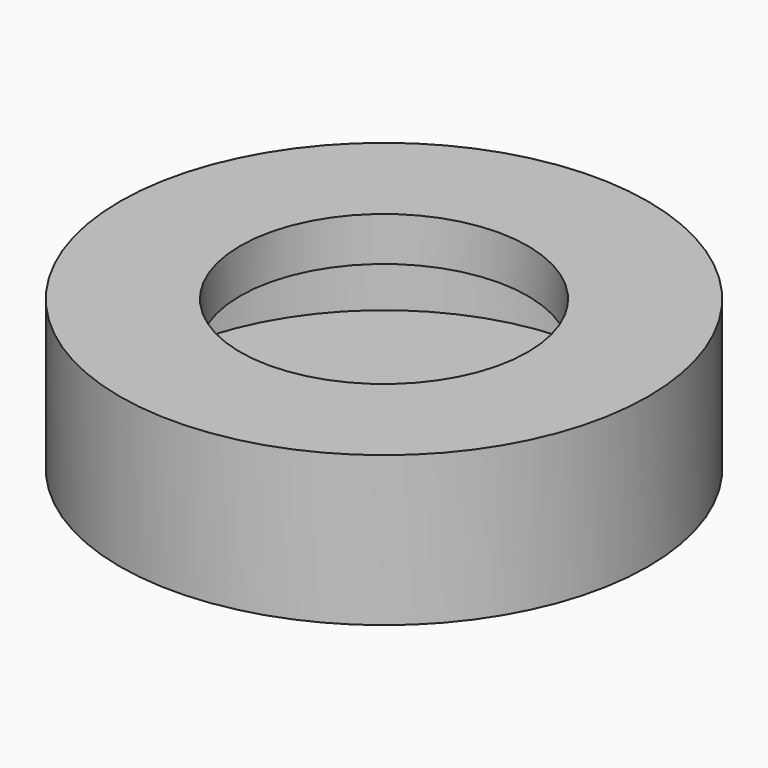
from build123d import *

# Parameters (mm, degrees)
F0_R     = 9
F1_DEPTH = 3.6
F2_R     = 8
F3_DEPTH = 3
F4_R     = 9
F4_R_2   = 4.9
F5_DEPTH = 1.5


with BuildPart() as f1:
    # F0 (on Top) → F1 (new body)
    with BuildSketch(Plane.XY):
        Circle(F0_R)
    extrude(amount=F1_DEPTH)

    # F2 (on face) → F3 (cut)
    with BuildSketch(Plane.XY.offset(3.6)):
        Circle(F2_R)
    extrude(amount=-F3_DEPTH, mode=Mode.SUBTRACT)

    # F4 (on face) → F5 (join)
    with BuildSketch(Plane.XY.offset(3.6)):
        Circle(F4_R)
        Circle(F4_R_2, mode=Mode.SUBTRACT)
    extrude(amount=F5_DEPTH)


solid = f1.part
